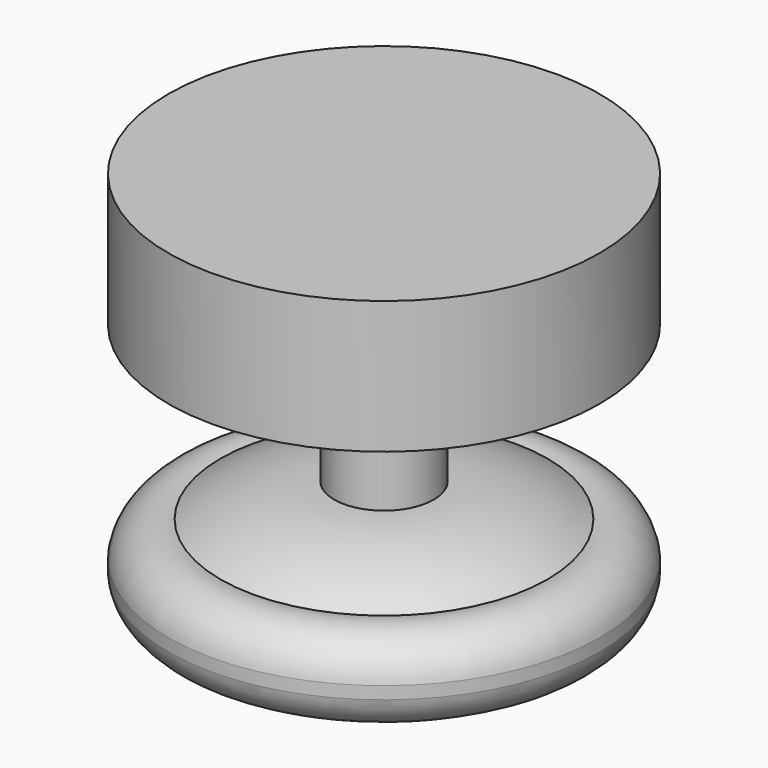
from build123d import *


with BuildPart() as f1:
    # F0 (on Front) → F1 (revolve)
    with BuildSketch(Plane.XZ):
        with BuildLine():
            ThreePointArc((19.538462, 11.569616), (25.633712, 12.233956), (31.75, 11.804487))
            ThreePointArc((31.75, 11.804487), (28.204831, 15.582908), (24.082709, 18.721822))
            ThreePointArc((24.082709, 18.721822), (16.053902, 22.362251), (7.326923, 23.608974))
            Line((7.326923, 23.608974), (7.326923, 43.961539))
            Line((7.326923, 43.961539), (31.75, 43.961539))
            Line((31.75, 43.961539), (31.75, 63.5))
            Line((31.75, 63.5), (0, 63.5))
            Line((0, 63.5), (0, 0))
            ThreePointArc((0, 0), (8.785973, 7.445308), (19.538462, 11.569616))
        make_face()
        with BuildLine():
            ThreePointArc((19.538462, 11.569616), (25.743426, 6.529652), (31.75, 11.804487))
            ThreePointArc((31.75, 11.804487), (25.633712, 12.233956), (19.538462, 11.569616))
        make_face()
        with BuildLine():
            ThreePointArc((24.082709, 18.721822), (28.204831, 15.582908), (31.75, 11.804487))
            Line((31.75, 11.804487), (31.75, 13.640747))
            ThreePointArc((31.75, 13.640747), (29.045977, 17.885874), (24.082709, 18.721822))
        make_face()
    revolve(axis=Axis((0, 0, 31.75), (0, 0, -1)))


solid = f1.part
